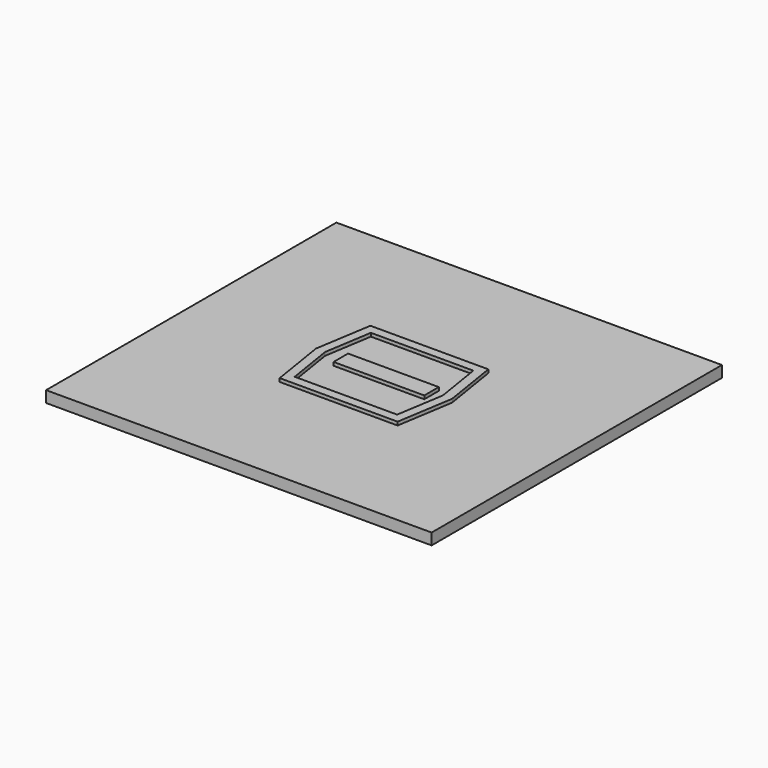
from build123d import *

# Parameters (mm, degrees)
F2_DEPTH  = 0.15
F0_W      = 4
F0_H      = 0.8
F0_W_2    = 7
F0_H_2    = 6
F2_FACE_W = 4
F2_FACE_H = 0.8
F1_W      = 17
F1_H      = 16
F3_DEPTH  = 0.5


with BuildPart() as f2:
    # F0 (on Top) → F2 (new body)
    with BuildSketch(Plane.XY):
        Polygon((0.9, -0.5), (0.5, -3), (0.9, -5.5), (6.1, -5.5), (6.5, -3), (6.1, -0.5), align=None)
        Polygon((1.2410876448, -5.1), (0.9050876448, -3), (1.2410876448, -0.9), (5.7589123552, -0.9), (6.0949123552, -3), (5.7589123552, -5.1), align=None, mode=Mode.SUBTRACT)
    extrude(amount=F2_DEPTH)



with BuildPart() as f2b:
    # F0 (on Top) → F2, piece 2 (new body)
    with BuildSketch(Plane.XY):
        with Locations((3.5949123552, -3)):
            Rectangle(F0_W, F0_H)
    extrude(amount=F2_DEPTH)


with BuildPart() as f2_1:
    add(f2.part)

    add(f2b.part)  # F3 merges F2b
    # F0 (on Top) + F2_face (on face) + F1 (on Top) → F3 (join)
    with BuildSketch(Plane.XY):
        with Locations((3.5, -3)):
            Rectangle(F0_W_2, F0_H_2)
        Polygon((0.9, -5.5), (0.5, -3), (0.9, -0.5), (6.1, -0.5), (6.5, -3), (6.1, -5.5), align=None, mode=Mode.SUBTRACT)
        Polygon((0.9, -0.5), (0.5, -3), (0.9, -5.5), (6.1, -5.5), (6.5, -3), (6.1, -0.5), align=None)
        Polygon((1.2410876448, -5.1), (0.9050876448, -3), (1.2410876448, -0.9), (5.7589123552, -0.9), (6.0949123552, -3), (5.7589123552, -5.1), align=None, mode=Mode.SUBTRACT)
        Polygon((1.2410876448, -0.9), (0.9050876448, -3), (1.2410876448, -5.1), (5.7589123552, -5.1), (6.0949123552, -3), (5.7589123552, -0.9), align=None)
        with Locations((3.5949123552, -3)):
            Rectangle(F0_W, F0_H, mode=Mode.SUBTRACT)
        with Locations((3.5949123552, -3)):
            Rectangle(F0_W, F0_H)
    with BuildSketch(Plane(origin=(3.5949123552, -3, 0), x_dir=(1, 0, 0), z_dir=(0, 0, -1))):
        Rectangle(F2_FACE_W, F2_FACE_H)
    with BuildSketch(Plane.XY):
        with Locations((3.5, -3)):
            Rectangle(F1_W, F1_H)
    extrude(amount=-F3_DEPTH, dir=(0, 0, 1))


solid = f2_1.part
